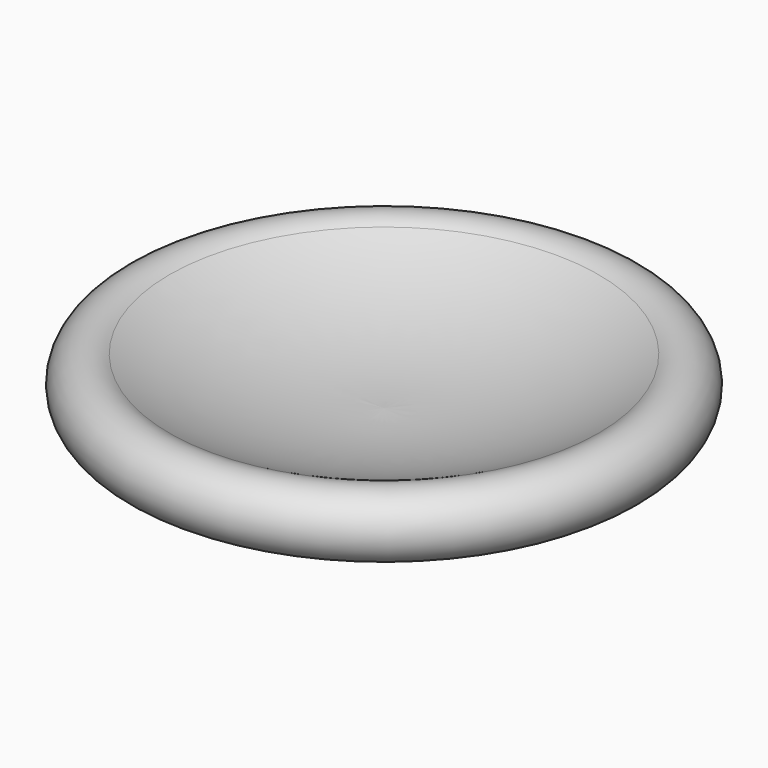
from build123d import *


with BuildPart() as f1:
    # F0 (on Front) → F1 (revolve)
    with BuildSketch(Plane.XZ):
        with BuildLine():
            Line((-40.5, 0), (0, 0))
            Line((0, 0), (0, 1))
            ThreePointArc((0, 1), (-20.843575, 2.828911), (-40.5, 10))
            ThreePointArc((-40.5, 10), (-49.816625, 5), (-40.5, 0))
        make_face()
    revolve(axis=Axis((0, 0, 2.684737), (0, 0, -1)))


solid = f1.part
